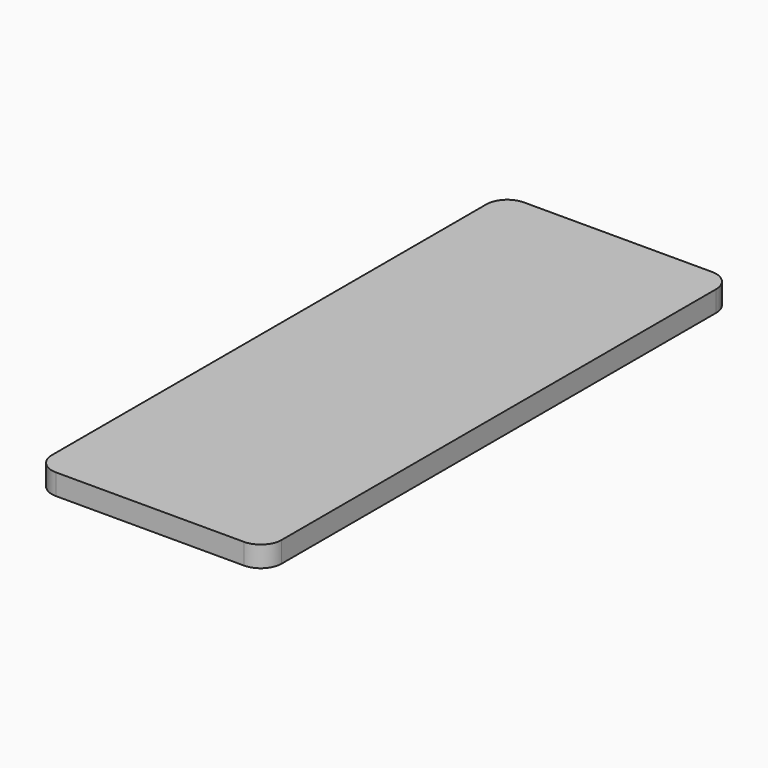
from build123d import *

# Parameters (mm, degrees)
F1_DEPTH = 3.175


with BuildPart() as f1:
    # F0 (on Top) → F1 (new body, symmetric)
    with BuildSketch(Plane.XY):
        with BuildLine():
            Line((28.575, 88.9), (-28.575, 88.9))
            ThreePointArc((-28.575, 88.9), (-33.065128, 87.040128), (-34.925, 82.55))
            Line((-34.925, 82.55), (-34.925, -82.55))
            ThreePointArc((-34.925, -82.55), (-33.065128, -87.040128), (-28.575, -88.9))
            Line((-28.575, -88.9), (28.575, -88.9))
            ThreePointArc((28.575, -88.9), (33.065128, -87.040128), (34.925, -82.55))
            Line((34.925, -82.55), (34.925, 82.55))
            ThreePointArc((34.925, 82.55), (33.065128, 87.040128), (28.575, 88.9))
        make_face()
    extrude(amount=F1_DEPTH, both=True)


solid = f1.part
